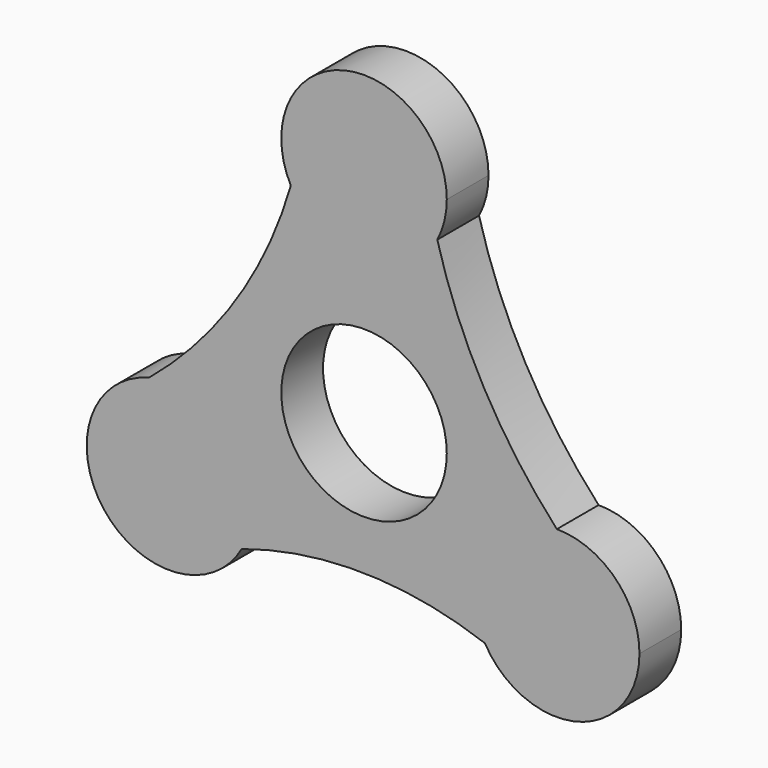
from build123d import *

# Parameters (mm, degrees)
F0_R     = 11.1
F1_DEPTH = 7
F2_DEPTH = 7
F3_DEPTH = 5


with BuildPart() as f1:
    # F0 (on Front) → F1 (new body)
    with BuildSketch(Plane.XZ):
        with BuildLine():
            ThreePointArc((9.825039, 24.834865), (10.776547, 27.339918), (11.1, 30))
            ThreePointArc((11.1, 30), (-2.660082, 40.776547), (-9.825039, 24.834865))
            ThreePointArc((-9.825039, 24.834865), (0, 18.9), (9.825039, 24.834865))
        make_face()
        with BuildLine():
            ThreePointArc((9.825039, 24.834865), (0, 18.9), (-9.825039, 24.834865))
            ThreePointArc((-9.825039, 24.834865), (-17.166777, 8.96815), (-28.85096, -4.03699))
            ThreePointArc((-28.85096, -4.03699), (-19.293109, -6.023224), (-15.000423, -14.790805))
            ThreePointArc((-15.000423, -14.790805), (-15.360837, -17.596387), (-16.418674, -20.219776))
            ThreePointArc((-16.418674, -20.219776), (-0.060989, -17.733621), (16.209832, -20.736158))
            ThreePointArc((16.209832, -20.736158), (16.251405, -9.649504), (25.865907, -4.128908))
            ThreePointArc((25.865907, -4.128908), (16.086312, 9.378711), (9.825039, 24.834865))
        make_face()
        Circle(F0_R, mode=Mode.SUBTRACT)
        with BuildLine():
            ThreePointArc((-15.000423, -14.790805), (-19.293109, -6.023224), (-28.85096, -4.03699))
            ThreePointArc((-28.85096, -4.03699), (-34.902757, -21.553122), (-16.418674, -20.219776))
            ThreePointArc((-16.418674, -20.219776), (-15.360837, -17.596387), (-15.000423, -14.790805))
        make_face()
        with BuildLine():
            ThreePointArc((36.94726, -15.228892), (33.702735, -7.386602), (25.865907, -4.128908))
            ThreePointArc((25.865907, -4.128908), (16.251405, -9.649504), (16.209832, -20.736158))
            ThreePointArc((16.209832, -20.736158), (28.696343, -25.95702), (36.94726, -15.228892))
        make_face()
    extrude(amount=F1_DEPTH)

    # F0 (on Front) → F2 (join)
    with BuildSketch(Plane.XZ):
        with BuildLine():
            ThreePointArc((9.825039, 24.834865), (10.776547, 27.339918), (11.1, 30))
            ThreePointArc((11.1, 30), (-2.660082, 40.776547), (-9.825039, 24.834865))
            ThreePointArc((-9.825039, 24.834865), (0, 18.9), (9.825039, 24.834865))
        make_face()
        with BuildLine():
            ThreePointArc((9.825039, 24.834865), (0, 18.9), (-9.825039, 24.834865))
            ThreePointArc((-9.825039, 24.834865), (-17.166777, 8.96815), (-28.85096, -4.03699))
            ThreePointArc((-28.85096, -4.03699), (-19.293109, -6.023224), (-15.000423, -14.790805))
            ThreePointArc((-15.000423, -14.790805), (-15.360837, -17.596387), (-16.418674, -20.219776))
            ThreePointArc((-16.418674, -20.219776), (-0.060989, -17.733621), (16.209832, -20.736158))
            ThreePointArc((16.209832, -20.736158), (16.251405, -9.649504), (25.865907, -4.128908))
            ThreePointArc((25.865907, -4.128908), (16.086312, 9.378711), (9.825039, 24.834865))
        make_face()
        Circle(F0_R, mode=Mode.SUBTRACT)
        with BuildLine():
            ThreePointArc((-15.000423, -14.790805), (-19.293109, -6.023224), (-28.85096, -4.03699))
            ThreePointArc((-28.85096, -4.03699), (-34.902757, -21.553122), (-16.418674, -20.219776))
            ThreePointArc((-16.418674, -20.219776), (-15.360837, -17.596387), (-15.000423, -14.790805))
        make_face()
        with BuildLine():
            ThreePointArc((36.94726, -15.228892), (33.702735, -7.386602), (25.865907, -4.128908))
            ThreePointArc((25.865907, -4.128908), (16.251405, -9.649504), (16.209832, -20.736158))
            ThreePointArc((16.209832, -20.736158), (28.696343, -25.95702), (36.94726, -15.228892))
        make_face()
    extrude(amount=F2_DEPTH)

    # F0 (on Front) → F3 (join)
    with BuildSketch(Plane.XZ):
        with BuildLine():
            ThreePointArc((9.825039, 24.834865), (10.776547, 27.339918), (11.1, 30))
            ThreePointArc((11.1, 30), (-2.660082, 40.776547), (-9.825039, 24.834865))
            ThreePointArc((-9.825039, 24.834865), (0, 18.9), (9.825039, 24.834865))
        make_face()
        with BuildLine():
            ThreePointArc((9.825039, 24.834865), (0, 18.9), (-9.825039, 24.834865))
            ThreePointArc((-9.825039, 24.834865), (-17.166777, 8.96815), (-28.85096, -4.03699))
            ThreePointArc((-28.85096, -4.03699), (-19.293109, -6.023224), (-15.000423, -14.790805))
            ThreePointArc((-15.000423, -14.790805), (-15.360837, -17.596387), (-16.418674, -20.219776))
            ThreePointArc((-16.418674, -20.219776), (-0.060989, -17.733621), (16.209832, -20.736158))
            ThreePointArc((16.209832, -20.736158), (16.251405, -9.649504), (25.865907, -4.128908))
            ThreePointArc((25.865907, -4.128908), (16.086312, 9.378711), (9.825039, 24.834865))
        make_face()
        Circle(F0_R, mode=Mode.SUBTRACT)
        with BuildLine():
            ThreePointArc((-15.000423, -14.790805), (-19.293109, -6.023224), (-28.85096, -4.03699))
            ThreePointArc((-28.85096, -4.03699), (-34.902757, -21.553122), (-16.418674, -20.219776))
            ThreePointArc((-16.418674, -20.219776), (-15.360837, -17.596387), (-15.000423, -14.790805))
        make_face()
        with BuildLine():
            ThreePointArc((36.94726, -15.228892), (33.702735, -7.386602), (25.865907, -4.128908))
            ThreePointArc((25.865907, -4.128908), (16.251405, -9.649504), (16.209832, -20.736158))
            ThreePointArc((16.209832, -20.736158), (28.696343, -25.95702), (36.94726, -15.228892))
        make_face()
    extrude(amount=F3_DEPTH)


solid = f1.part
